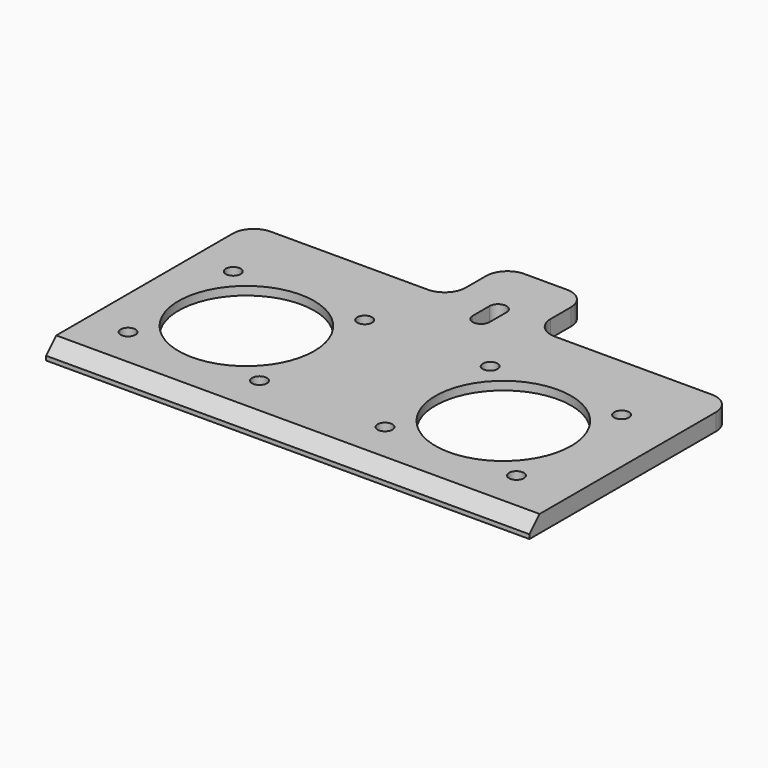
from build123d import *

# Parameters (mm, degrees)
F0_W          = 43
F0_H          = 43
F0_R          = 1.75
F0_R_2        = 16
F1_DEPTH      = 4
F2_R          = 5
F3_SIZE       = 3
F4_DEPTH      = 4
F4_DEPTH_BACK = 2


with BuildPart() as f1:
    # F0 (on Top) → F1 (new body)
    with BuildSketch(Plane.XY):
        Polygon((-8.6166327415, 27.9440277213), (-55.6166327415, 27.9440277213), (-55.6166327415, -32.0559722787), (58.3833672585, -32.0559722787), (58.3833672585, 27.9440277213), (11.3833672585, 27.9440277213), (11.3833672585, 43.9440277213), (-8.6166327415, 43.9440277213), align=None)
        with Locations((-30.6166327415, -4.2559722787)):
            Rectangle(F0_W, F0_H, mode=Mode.SUBTRACT)
        with Locations((29.9833672585, -4.2559722787)):
            Rectangle(F0_W, F0_H, mode=Mode.SUBTRACT)
        with BuildLine():
            ThreePointArc((-0.6166327415, 29.9440277213), (1.3833672585, 31.9440277213), (3.3833672585, 29.9440277213))
            Line((3.3833672585, 29.9440277213), (3.3833672585, 24.9440277213))
            ThreePointArc((3.3833672585, 24.9440277213), (1.3833672585, 22.9440277213), (-0.6166327415, 24.9440277213))
            Line((-0.6166327415, 24.9440277213), (-0.6166327415, 29.9440277213))
        make_face(mode=Mode.SUBTRACT)
        with Locations((-30.6166327415, -4.2559722787)):
            Rectangle(F0_W, F0_H)
        with Locations((-46.1166327415, -19.7559722787)):
            Circle(F0_R, mode=Mode.SUBTRACT)
        with Locations((-15.1166327415, -19.7559722787)):
            Circle(F0_R, mode=Mode.SUBTRACT)
        with Locations((-30.6166327415, -4.2559722787)):
            Circle(F0_R_2, mode=Mode.SUBTRACT)
        with Locations((-46.1166327415, 11.2440277213)):
            Circle(F0_R, mode=Mode.SUBTRACT)
        with Locations((-15.1166327415, 11.2440277213)):
            Circle(F0_R, mode=Mode.SUBTRACT)
        with Locations((29.9833672585, -4.2559722787)):
            Rectangle(F0_W, F0_H)
        with Locations((14.4833672585, -19.7559722787)):
            Circle(F0_R, mode=Mode.SUBTRACT)
        with Locations((45.4833672585, -19.7559722787)):
            Circle(F0_R, mode=Mode.SUBTRACT)
        with Locations((29.9833672585, -4.2559722787)):
            Circle(F0_R_2, mode=Mode.SUBTRACT)
        with Locations((14.4833672585, 11.2440277213)):
            Circle(F0_R, mode=Mode.SUBTRACT)
        with Locations((45.4833672585, 11.2440277213)):
            Circle(F0_R, mode=Mode.SUBTRACT)
    extrude(amount=F1_DEPTH)

    # F2
    f2_edges = [f1.edges().sort_by_distance(p)[0] for p in [
        (-8.616633, 43.944028, 2),
        (-8.616633, 27.944028, 2),
        (-55.616633, 27.944028, 2),
        (11.383367, 43.944028, 2),
        (11.383367, 27.944028, 2),
        (58.383367, 27.944028, 2),
    ]]
    fillet(f2_edges, radius=F2_R)

    # F3
    f3_edges = [f1.edges().sort_by_distance(p)[0] for p in [
        (1.383367, -32.055972, 4),
    ]]
    chamfer(f3_edges, length=F3_SIZE)

    # F0 (on Top) → F4 (cut, two sides)
    with BuildSketch(Plane.XY) as f4_sk:
        with Locations((-30.6166327415, -4.2559722787)):
            Rectangle(F0_W, F0_H)
        with Locations((-46.1166327415, -19.7559722787)):
            Circle(F0_R, mode=Mode.SUBTRACT)
        with Locations((-15.1166327415, -19.7559722787)):
            Circle(F0_R, mode=Mode.SUBTRACT)
        with Locations((-30.6166327415, -4.2559722787)):
            Circle(F0_R_2, mode=Mode.SUBTRACT)
        with Locations((-46.1166327415, 11.2440277213)):
            Circle(F0_R, mode=Mode.SUBTRACT)
        with Locations((-15.1166327415, 11.2440277213)):
            Circle(F0_R, mode=Mode.SUBTRACT)
        with Locations((29.9833672585, -4.2559722787)):
            Rectangle(F0_W, F0_H)
        with Locations((14.4833672585, -19.7559722787)):
            Circle(F0_R, mode=Mode.SUBTRACT)
        with Locations((45.4833672585, -19.7559722787)):
            Circle(F0_R, mode=Mode.SUBTRACT)
        with Locations((29.9833672585, -4.2559722787)):
            Circle(F0_R_2, mode=Mode.SUBTRACT)
        with Locations((14.4833672585, 11.2440277213)):
            Circle(F0_R, mode=Mode.SUBTRACT)
        with Locations((45.4833672585, 11.2440277213)):
            Circle(F0_R, mode=Mode.SUBTRACT)
    extrude(amount=-F4_DEPTH, mode=Mode.SUBTRACT)
    extrude(f4_sk.sketch, amount=F4_DEPTH_BACK, mode=Mode.SUBTRACT)


solid = f1.part
